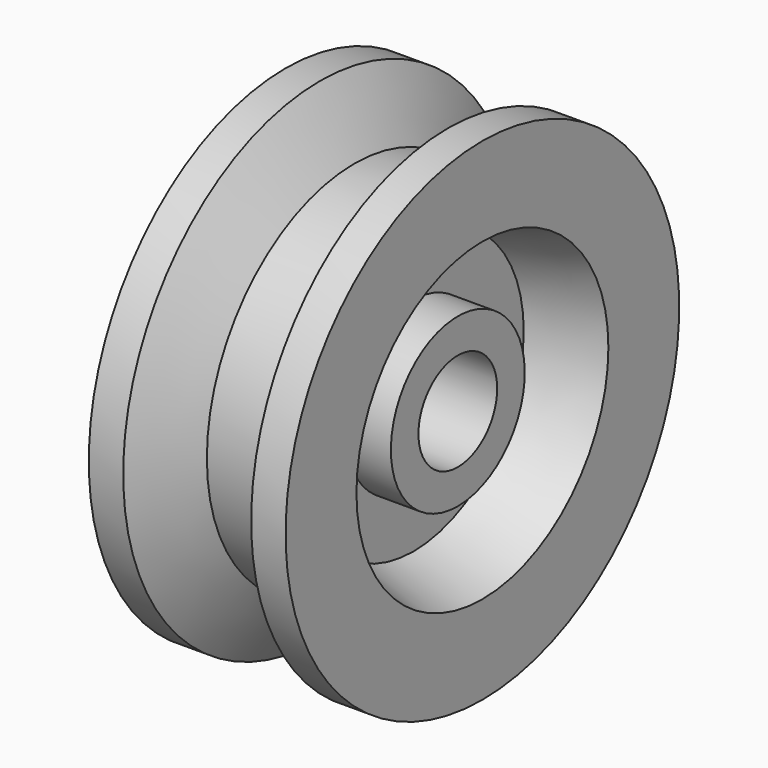
from build123d import *


with BuildPart() as f1:
    # F0 (on Front) → F1 (revolve)
    with BuildSketch(Plane.XZ):
        Polygon((-15, -10), (-15, -17), (-6, -17), (-6, -28), (-20, -32), (-20, -50), (-13, -50), (-6, -37.5), (6, -37.5), (13, -50), (20, -50), (20, -32), (6, -28), (6, -17), (15, -17), (15, -10), align=None)
    revolve(axis=Axis((7.868852, 0, 0), (1, 0, 0)))


solid = f1.part
